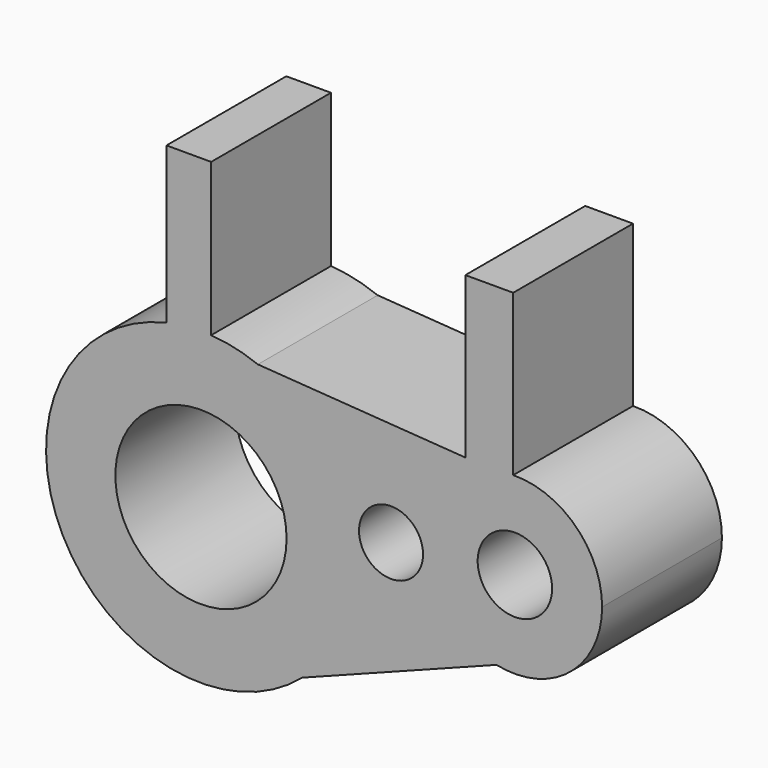
from build123d import *

# Parameters (mm, degrees)
F0_R     = 14.5192229183
F0_R_2   = 5.4303083629
F0_R_3   = 6.3120733823
F1_DEPTH = 25.4


with BuildPart() as f1:
    # F0 (on Front) → F1 (new body)
    with BuildSketch(Plane.XZ):
        with BuildLine():
            ThreePointArc((-22.1372511331, -7.9602920159), (-15.4027920309, 0.9960021992), (-13.0130593757, 11.9439391419))
            ThreePointArc((-13.0130593757, 11.9439391419), (-17.561432299, 26.7191169654), (-29.6316910405, 36.3784352581))
            ThreePointArc((-29.6316910405, 36.3784352581), (-33.5259051923, 37.5772685467), (-37.5586524606, 38.1595524841))
            Line((-37.5586524606, 38.1595524841), (-37.5586524606, 37.557731152))
            Line((-37.5586524606, 37.557731152), (-45.1313371936, 37.557731152))
            ThreePointArc((-45.1313371936, 37.557731152), (-62.7356139713, 0.0977680423), (-22.1372511331, -7.9602920159))
        make_face()
        with Locations((-39.2854847014, 11.9439391419)):
            Circle(F0_R, mode=Mode.SUBTRACT)
        with BuildLine():
            ThreePointArc((-29.6316910405, 36.3784352581), (-17.561432299, 26.7191169654), (-13.0130593757, 11.9439391419))
            ThreePointArc((-13.0130593757, 11.9439391419), (-15.4027920309, 0.9960021992), (-22.1372511331, -7.9602920159))
            Line((-22.1372511331, -7.9602920159), (10.8409033056, 4.6780082114))
            ThreePointArc((10.8409033056, 4.6780082114), (-0.834455342, 19.0455572147), (10.6583055416, 33.5595818525))
            Line((10.6583055416, 33.5595818525), (5.5587443353, 33.9163680698))
            Line((5.5587443353, 33.9163680698), (-29.6316910405, 36.3784352581))
        make_face()
        with Locations((-7.0512401871, 17.1244423836)):
            Circle(F0_R_2, mode=Mode.SUBTRACT)
        with BuildLine():
            Line((-37.5586524606, 37.557731152), (-37.5586524606, 38.1595524841))
            ThreePointArc((-37.5586524606, 38.1595524841), (-41.3668614541, 38.1337883837), (-45.1313371936, 37.557731152))
            Line((-45.1313371936, 37.557731152), (-37.5586524606, 37.557731152))
        make_face()
        with BuildLine():
            ThreePointArc((-45.1313371936, 37.557731152), (-41.3668614541, 38.1337883837), (-37.5586524606, 38.1595524841))
            Line((-37.5586524606, 38.1595524841), (-37.5586524606, 64.0367791057))
            Line((-37.5586524606, 64.0367791057), (-45.1313371936, 64.0367791057))
            Line((-45.1313371936, 64.0367791057), (-45.1313371936, 37.557731152))
        make_face()
        with BuildLine():
            Line((13.2697881301, 33.9163680698), (5.5587443353, 33.9163680698))
            Line((5.5587443353, 33.9163680698), (10.6583055416, 33.5595818525))
            ThreePointArc((10.6583055416, 33.5595818525), (11.9560848874, 33.7962521275), (13.2697881301, 33.9163680698))
        make_face()
        with BuildLine():
            Line((5.5587443353, 61.1587241292), (5.5587443353, 33.9163680698))
            Line((5.5587443353, 33.9163680698), (13.2697881301, 33.9163680698))
            ThreePointArc((13.2697881301, 33.9163680698), (13.4702353216, 33.9243495497), (13.6707723141, 33.9296121794))
            Line((13.6707723141, 33.9296121794), (13.6707723141, 61.1587241292))
            Line((13.6707723141, 61.1587241292), (5.5587443353, 61.1587241292))
        make_face()
        with BuildLine():
            ThreePointArc((10.6583055416, 33.5595818525), (-0.834455342, 19.0455572147), (10.8409033056, 4.6780082114))
            ThreePointArc((10.8409033056, 4.6780082114), (23.2516344138, 7.6290142519), (28.7519069841, 19.1390831023))
            ThreePointArc((28.7519069841, 19.1390831023), (24.3167867795, 29.7008108648), (13.6707723141, 33.9296121794))
            Line((13.6707723141, 33.9296121794), (13.6707723141, 33.9163680698))
            Line((13.6707723141, 33.9163680698), (13.2697881301, 33.9163680698))
            ThreePointArc((13.2697881301, 33.9163680698), (11.9560848874, 33.7962521275), (10.6583055416, 33.5595818525))
        make_face()
        with Locations((13.958577998, 19.1390831023)):
            Circle(F0_R_3, mode=Mode.SUBTRACT)
        with BuildLine():
            ThreePointArc((13.6707723141, 33.9296121794), (13.4702353216, 33.9243495497), (13.2697881301, 33.9163680698))
            Line((13.2697881301, 33.9163680698), (13.6707723141, 33.9163680698))
            Line((13.6707723141, 33.9163680698), (13.6707723141, 33.9296121794))
        make_face()
    extrude(amount=F1_DEPTH)


solid = f1.part
